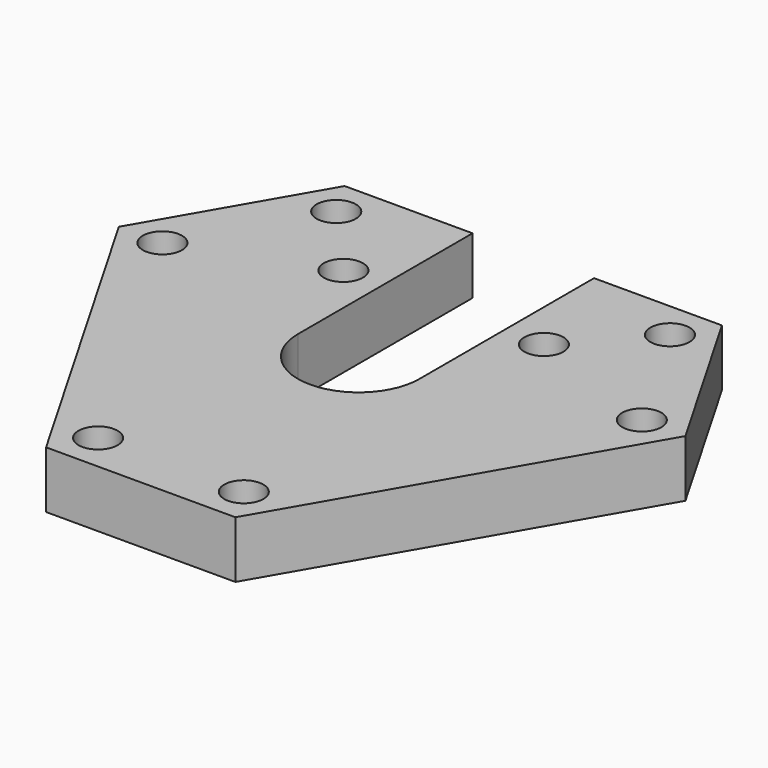
from build123d import *

# Parameters (mm, degrees)
F1_DEPTH = 6.1341
F3_D     = 4.2164
F5_DEPTH = 6.1341
F7_D     = 4.2164


with BuildPart() as f1:
    # F0 (on Top) → F1 (new body)
    with BuildSketch(Plane.XY):
        Polygon((-30.502569, 5.842), (-10.191964, -29.337), (10.191964, -29.337), (30.502569, 5.842), (20.310605, 23.495), (-20.310605, 23.495), align=None)
    extrude(amount=F1_DEPTH)

    # F3 (through all)
    with Locations(Plane.XY.offset(6.1341)):
        with Locations((-17.964254, 19.431), (-25.809866, 5.842), (-7.845613, -25.273), (7.845613, -25.273), (25.809866, 5.842), (17.964254, 19.431)):
            Hole(F3_D / 2)

    # F4 (on face) → F5 (cut, through all)
    with BuildSketch(Plane.XY.offset(6.1341)):
        with BuildLine():
            Line((-6.5405, 23.495), (-6.5405, 0))
            ThreePointArc((-6.5405, 0), (0, -6.5405), (6.5405, 0))
            Line((6.5405, 0), (6.5405, 23.495))
            Line((6.5405, 23.495), (-6.5405, 23.495))
        make_face()
    extrude(amount=-F5_DEPTH, mode=Mode.SUBTRACT)

    # F7 (through all)
    with Locations(Plane.XY.offset(6.1341)):
        with Locations((-10.795, 11.43), (10.795, 11.43)):
            Hole(F7_D / 2)


solid = f1.part
